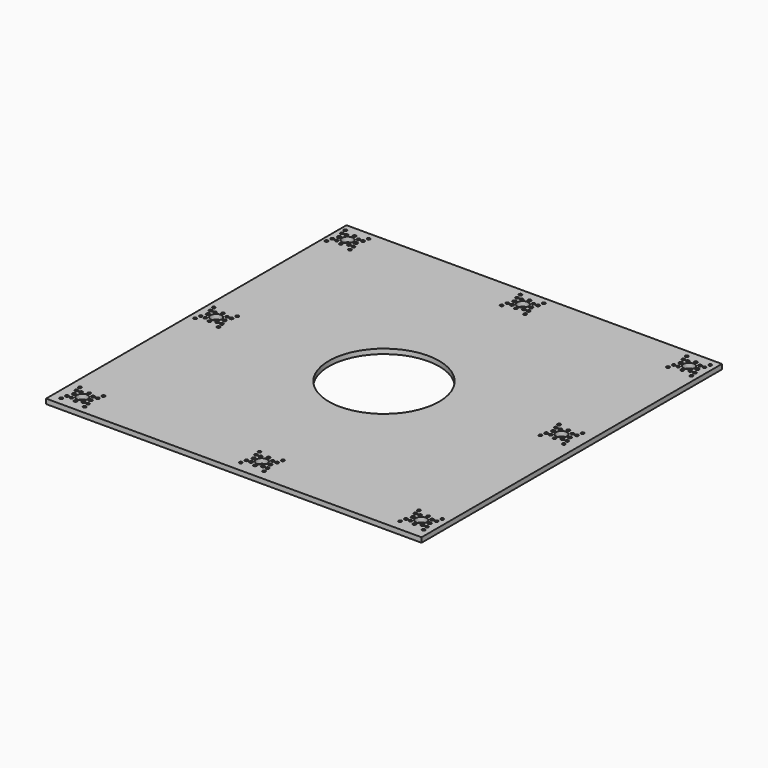
from build123d import *

# Parameters (mm, degrees)
F0_W     = 431.8
F0_H     = 431.8
F0_R     = 1.778
F0_R_2   = 2.032
F0_R_3   = 6.3627
F0_R_4   = 63.5
F1_DEPTH = 5.588


with BuildPart() as f1:
    # F0 (on Top) → F1 (new body)
    with BuildSketch(Plane.XY):
        with Locations((-67.726219, -73.67955)):
            Rectangle(F0_W, F0_H)
        with Locations((-273.495427, -280.487299)):
            Circle(F0_R, mode=Mode.SUBTRACT)
        with Locations((-260.025043, -276.795915)):
            Circle(F0_R, mode=Mode.SUBTRACT)
        with Locations((-272.160245, -273.931712)):
            Circle(F0_R, mode=Mode.SUBTRACT)
        with Locations((-266.93984, -273.931712)):
            Circle(F0_R, mode=Mode.SUBTRACT)
        with Locations((-269.550043, -267.016915)):
            Circle(F0_R_2, mode=Mode.SUBTRACT)
        with Locations((-260.025043, -267.016915)):
            Circle(F0_R_3, mode=Mode.SUBTRACT)
        with Locations((-246.554658, -280.487299)):
            Circle(F0_R, mode=Mode.SUBTRACT)
        with Locations((-253.110245, -273.931712)):
            Circle(F0_R, mode=Mode.SUBTRACT)
        with Locations((-247.88984, -273.931712)):
            Circle(F0_R, mode=Mode.SUBTRACT)
        with Locations((-250.500043, -267.016915)):
            Circle(F0_R_2, mode=Mode.SUBTRACT)
        with Locations((-272.160245, -260.102118)):
            Circle(F0_R, mode=Mode.SUBTRACT)
        with Locations((-273.495427, -253.546531)):
            Circle(F0_R, mode=Mode.SUBTRACT)
        with Locations((-266.93984, -260.102118)):
            Circle(F0_R, mode=Mode.SUBTRACT)
        with Locations((-260.025043, -257.237915)):
            Circle(F0_R, mode=Mode.SUBTRACT)
        with Locations((-253.110245, -260.102118)):
            Circle(F0_R, mode=Mode.SUBTRACT)
        with Locations((-247.88984, -260.102118)):
            Circle(F0_R, mode=Mode.SUBTRACT)
        with Locations((-246.554658, -253.546531)):
            Circle(F0_R, mode=Mode.SUBTRACT)
        with Locations((-69.416419, -277.537063)):
            Circle(F0_R, mode=Mode.SUBTRACT)
        with Locations((-68.081238, -270.981476)):
            Circle(F0_R, mode=Mode.SUBTRACT)
        with Locations((-68.081238, -257.151882)):
            Circle(F0_R, mode=Mode.SUBTRACT)
        with Locations((-69.416419, -250.596295)):
            Circle(F0_R, mode=Mode.SUBTRACT)
        with Locations((-276.637217, -84.140552)):
            Circle(F0_R, mode=Mode.SUBTRACT)
        with Locations((-275.302036, -77.584965)):
            Circle(F0_R, mode=Mode.SUBTRACT)
        with Locations((-263.166833, -80.449168)):
            Circle(F0_R, mode=Mode.SUBTRACT)
        with Locations((-270.08163, -77.584965)):
            Circle(F0_R, mode=Mode.SUBTRACT)
        with Locations((-249.696449, -84.140552)):
            Circle(F0_R, mode=Mode.SUBTRACT)
        with Locations((-256.252036, -77.584965)):
            Circle(F0_R, mode=Mode.SUBTRACT)
        with Locations((-251.03163, -77.584965)):
            Circle(F0_R, mode=Mode.SUBTRACT)
        with Locations((-42.475651, -277.537063)):
            Circle(F0_R, mode=Mode.SUBTRACT)
        with Locations((-62.860832, -270.981476)):
            Circle(F0_R, mode=Mode.SUBTRACT)
        with Locations((-55.946035, -273.845679)):
            Circle(F0_R, mode=Mode.SUBTRACT)
        with Locations((-65.471035, -264.066679)):
            Circle(F0_R_2, mode=Mode.SUBTRACT)
        with Locations((-55.946035, -264.066679)):
            Circle(F0_R_3, mode=Mode.SUBTRACT)
        with Locations((-49.031238, -270.981476)):
            Circle(F0_R, mode=Mode.SUBTRACT)
        with Locations((-43.810832, -270.981476)):
            Circle(F0_R, mode=Mode.SUBTRACT)
        with Locations((-46.421035, -264.066679)):
            Circle(F0_R_2, mode=Mode.SUBTRACT)
        with Locations((-62.860832, -257.151882)):
            Circle(F0_R, mode=Mode.SUBTRACT)
        with Locations((-55.946035, -254.287679)):
            Circle(F0_R, mode=Mode.SUBTRACT)
        with Locations((-49.031238, -257.151882)):
            Circle(F0_R, mode=Mode.SUBTRACT)
        with Locations((-43.810832, -257.151882)):
            Circle(F0_R, mode=Mode.SUBTRACT)
        with Locations((-42.475651, -250.596295)):
            Circle(F0_R, mode=Mode.SUBTRACT)
        with Locations((113.608369, -277.131124)):
            Circle(F0_R, mode=Mode.SUBTRACT)
        with Locations((114.943551, -270.575537)):
            Circle(F0_R, mode=Mode.SUBTRACT)
        with Locations((120.163956, -270.575537)):
            Circle(F0_R, mode=Mode.SUBTRACT)
        with Locations((117.553753, -263.660739)):
            Circle(F0_R_2, mode=Mode.SUBTRACT)
        with Locations((140.549138, -277.131124)):
            Circle(F0_R, mode=Mode.SUBTRACT)
        with Locations((127.078753, -273.439739)):
            Circle(F0_R, mode=Mode.SUBTRACT)
        with Locations((133.993551, -270.575537)):
            Circle(F0_R, mode=Mode.SUBTRACT)
        with Locations((127.078753, -263.660739)):
            Circle(F0_R_3, mode=Mode.SUBTRACT)
        with Locations((139.213956, -270.575537)):
            Circle(F0_R, mode=Mode.SUBTRACT)
        with Locations((136.603753, -263.660739)):
            Circle(F0_R_2, mode=Mode.SUBTRACT)
        with Locations((114.943551, -256.745942)):
            Circle(F0_R, mode=Mode.SUBTRACT)
        with Locations((120.163956, -256.745942)):
            Circle(F0_R, mode=Mode.SUBTRACT)
        with Locations((113.608369, -250.190355)):
            Circle(F0_R, mode=Mode.SUBTRACT)
        with Locations((133.993551, -256.745942)):
            Circle(F0_R, mode=Mode.SUBTRACT)
        with Locations((127.078753, -253.881739)):
            Circle(F0_R, mode=Mode.SUBTRACT)
        with Locations((139.213956, -256.745942)):
            Circle(F0_R, mode=Mode.SUBTRACT)
        with Locations((140.549138, -250.190355)):
            Circle(F0_R, mode=Mode.SUBTRACT)
        with Locations((-272.691833, -70.670168)):
            Circle(F0_R_2, mode=Mode.SUBTRACT)
        with Locations((-275.302036, -63.75537)):
            Circle(F0_R, mode=Mode.SUBTRACT)
        with Locations((-263.166833, -70.670168)):
            Circle(F0_R_3, mode=Mode.SUBTRACT)
        with Locations((-270.08163, -63.75537)):
            Circle(F0_R, mode=Mode.SUBTRACT)
        with Locations((-263.166833, -60.891168)):
            Circle(F0_R, mode=Mode.SUBTRACT)
        with Locations((-276.637217, -57.199783)):
            Circle(F0_R, mode=Mode.SUBTRACT)
        with Locations((-253.641833, -70.670168)):
            Circle(F0_R_2, mode=Mode.SUBTRACT)
        with Locations((-256.252036, -63.75537)):
            Circle(F0_R, mode=Mode.SUBTRACT)
        with Locations((-251.03163, -63.75537)):
            Circle(F0_R, mode=Mode.SUBTRACT)
        with Locations((-249.696449, -57.199783)):
            Circle(F0_R, mode=Mode.SUBTRACT)
        with Locations((-278.367632, 107.039251)):
            Circle(F0_R, mode=Mode.SUBTRACT)
        with Locations((-277.032451, 113.594838)):
            Circle(F0_R, mode=Mode.SUBTRACT)
        with Locations((-271.812045, 113.594838)):
            Circle(F0_R, mode=Mode.SUBTRACT)
        with Locations((-264.897248, 110.730636)):
            Circle(F0_R, mode=Mode.SUBTRACT)
        with Locations((-257.982451, 113.594838)):
            Circle(F0_R, mode=Mode.SUBTRACT)
        with Locations((-251.426864, 107.039251)):
            Circle(F0_R, mode=Mode.SUBTRACT)
        with Locations((-252.762045, 113.594838)):
            Circle(F0_R, mode=Mode.SUBTRACT)
        with Locations((-274.422248, 120.509636)):
            Circle(F0_R_2, mode=Mode.SUBTRACT)
        with Locations((-277.032451, 127.424433)):
            Circle(F0_R, mode=Mode.SUBTRACT)
        with Locations((-271.812045, 127.424433)):
            Circle(F0_R, mode=Mode.SUBTRACT)
        with Locations((-264.897248, 120.509636)):
            Circle(F0_R_3, mode=Mode.SUBTRACT)
        with Locations((-257.982451, 127.424433)):
            Circle(F0_R, mode=Mode.SUBTRACT)
        with Locations((-278.367632, 133.98002)):
            Circle(F0_R, mode=Mode.SUBTRACT)
        with Locations((-264.897248, 130.288636)):
            Circle(F0_R, mode=Mode.SUBTRACT)
        with Locations((-255.372248, 120.509636)):
            Circle(F0_R_2, mode=Mode.SUBTRACT)
        with Locations((-252.762045, 127.424433)):
            Circle(F0_R, mode=Mode.SUBTRACT)
        with Locations((-251.426864, 133.98002)):
            Circle(F0_R, mode=Mode.SUBTRACT)
        with Locations((-77.307187, 107.445195)):
            Circle(F0_R, mode=Mode.SUBTRACT)
        with Locations((-75.972006, 114.000782)):
            Circle(F0_R, mode=Mode.SUBTRACT)
        with Locations((-70.7516, 114.000782)):
            Circle(F0_R, mode=Mode.SUBTRACT)
        with Locations((-73.361803, 120.915579)):
            Circle(F0_R_2, mode=Mode.SUBTRACT)
        with Locations((-75.972006, 127.830376)):
            Circle(F0_R, mode=Mode.SUBTRACT)
        with Locations((-70.7516, 127.830376)):
            Circle(F0_R, mode=Mode.SUBTRACT)
        with Locations((-77.307187, 134.385963)):
            Circle(F0_R, mode=Mode.SUBTRACT)
        with Locations((-67.726219, -73.67955)):
            Circle(F0_R_4, mode=Mode.SUBTRACT)
        with Locations((107.654431, -68.062491)):
            Circle(F0_R, mode=Mode.SUBTRACT)
        with Locations((108.989613, -61.506904)):
            Circle(F0_R, mode=Mode.SUBTRACT)
        with Locations((114.210018, -61.506904)):
            Circle(F0_R, mode=Mode.SUBTRACT)
        with Locations((121.124816, -64.371107)):
            Circle(F0_R, mode=Mode.SUBTRACT)
        with Locations((111.599816, -54.592107)):
            Circle(F0_R_2, mode=Mode.SUBTRACT)
        with Locations((121.124816, -54.592107)):
            Circle(F0_R_3, mode=Mode.SUBTRACT)
        with Locations((108.989613, -47.677309)):
            Circle(F0_R, mode=Mode.SUBTRACT)
        with Locations((114.210018, -47.677309)):
            Circle(F0_R, mode=Mode.SUBTRACT)
        with Locations((134.5952, -68.062491)):
            Circle(F0_R, mode=Mode.SUBTRACT)
        with Locations((128.039613, -61.506904)):
            Circle(F0_R, mode=Mode.SUBTRACT)
        with Locations((133.260018, -61.506904)):
            Circle(F0_R, mode=Mode.SUBTRACT)
        with Locations((130.649816, -54.592107)):
            Circle(F0_R_2, mode=Mode.SUBTRACT)
        with Locations((128.039613, -47.677309)):
            Circle(F0_R, mode=Mode.SUBTRACT)
        with Locations((133.260018, -47.677309)):
            Circle(F0_R, mode=Mode.SUBTRACT)
        with Locations((107.654431, -41.121722)):
            Circle(F0_R, mode=Mode.SUBTRACT)
        with Locations((121.124816, -44.813107)):
            Circle(F0_R, mode=Mode.SUBTRACT)
        with Locations((134.5952, -41.121722)):
            Circle(F0_R, mode=Mode.SUBTRACT)
        with Locations((-63.836803, 111.136579)):
            Circle(F0_R, mode=Mode.SUBTRACT)
        with Locations((-56.922006, 114.000782)):
            Circle(F0_R, mode=Mode.SUBTRACT)
        with Locations((-50.366419, 107.445195)):
            Circle(F0_R, mode=Mode.SUBTRACT)
        with Locations((-51.7016, 114.000782)):
            Circle(F0_R, mode=Mode.SUBTRACT)
        with Locations((-63.836803, 120.915579)):
            Circle(F0_R_3, mode=Mode.SUBTRACT)
        with Locations((-54.311803, 120.915579)):
            Circle(F0_R_2, mode=Mode.SUBTRACT)
        with Locations((-56.922006, 127.830376)):
            Circle(F0_R, mode=Mode.SUBTRACT)
        with Locations((-51.7016, 127.830376)):
            Circle(F0_R, mode=Mode.SUBTRACT)
        with Locations((-63.836803, 130.694579)):
            Circle(F0_R, mode=Mode.SUBTRACT)
        with Locations((-50.366419, 134.385963)):
            Circle(F0_R, mode=Mode.SUBTRACT)
        with Locations((114.304551, 107.039251)):
            Circle(F0_R, mode=Mode.SUBTRACT)
        with Locations((115.639733, 113.594838)):
            Circle(F0_R, mode=Mode.SUBTRACT)
        with Locations((120.860138, 113.594838)):
            Circle(F0_R, mode=Mode.SUBTRACT)
        with Locations((127.774936, 110.730636)):
            Circle(F0_R, mode=Mode.SUBTRACT)
        with Locations((141.24532, 107.039251)):
            Circle(F0_R, mode=Mode.SUBTRACT)
        with Locations((134.689733, 113.594838)):
            Circle(F0_R, mode=Mode.SUBTRACT)
        with Locations((139.910138, 113.594838)):
            Circle(F0_R, mode=Mode.SUBTRACT)
        with Locations((118.249936, 120.509636)):
            Circle(F0_R_2, mode=Mode.SUBTRACT)
        with Locations((115.639733, 127.424433)):
            Circle(F0_R, mode=Mode.SUBTRACT)
        with Locations((120.860138, 127.424433)):
            Circle(F0_R, mode=Mode.SUBTRACT)
        with Locations((114.304551, 133.98002)):
            Circle(F0_R, mode=Mode.SUBTRACT)
        with Locations((127.774936, 120.509636)):
            Circle(F0_R_3, mode=Mode.SUBTRACT)
        with Locations((137.299936, 120.509636)):
            Circle(F0_R_2, mode=Mode.SUBTRACT)
        with Locations((134.689733, 127.424433)):
            Circle(F0_R, mode=Mode.SUBTRACT)
        with Locations((139.910138, 127.424433)):
            Circle(F0_R, mode=Mode.SUBTRACT)
        with Locations((127.774936, 130.288636)):
            Circle(F0_R, mode=Mode.SUBTRACT)
        with Locations((141.24532, 133.98002)):
            Circle(F0_R, mode=Mode.SUBTRACT)
    extrude(amount=F1_DEPTH)


solid = f1.part
